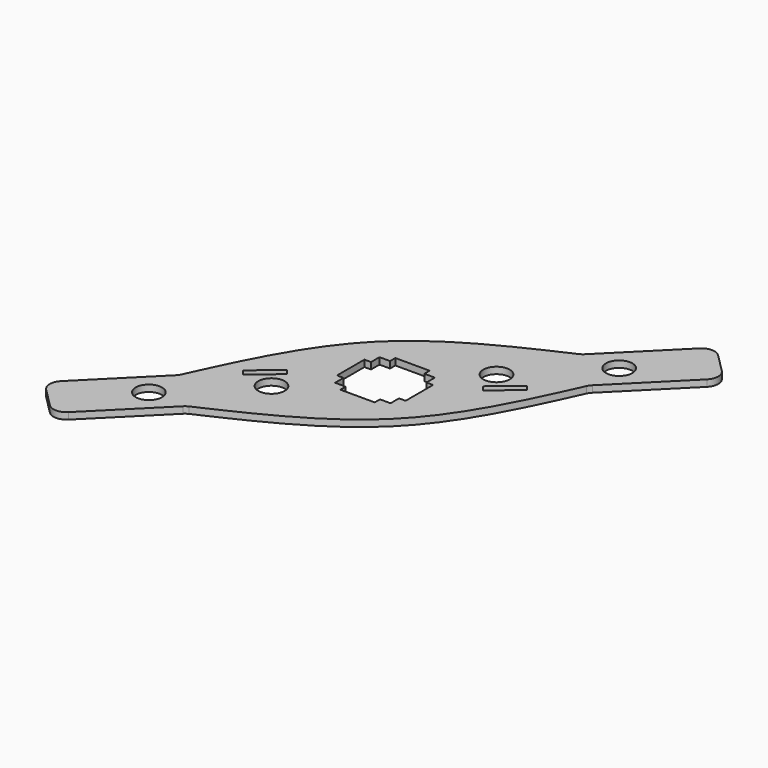
from build123d import *

# Parameters (mm, degrees)
F0_R     = 6.35
F0_R_2   = 6.3456189751
F1_DEPTH = 3.175


with BuildPart() as f1:
    # F0 (on Top) → F1 (new body)
    with BuildSketch(Plane.XY):
        with BuildLine():
            Line((94.021920908, 85.0416647869), (89.5317928475, 89.5317928475))
            Line((89.5317928475, 89.5317928475), (85.0416647869, 94.021920908))
            ThreePointArc((85.0416647869, 94.021920908), (80.5515367264, 95.8817928475), (76.0614086659, 94.021920908))
            Line((76.0614086659, 94.021920908), (45.4406379411, 63.4011501833))
            ThreePointArc((45.4406379411, 63.4011501833), (44.5721534378, 62.6753221527), (43.5886052016, 62.1152109764))
            add(Edge.make_bspline(
                [(-62.6577688011, -44.1408912278), (-51.418068027, -19.7331071402), (-28.816494863, 28.7776684856), (19.4337104978, 51.08297888), (43.5886052016, 62.1152109764)],
                knots=[0.0069595994, 0.0069595994, 0.0069595994, 0.0069595994, 0.5011838102, 0.9929298624, 0.9929298624, 0.9929298624, 0.9929298624], degree=3))
            ThreePointArc((-62.6577688011, -44.1408912278), (-63.215282887, -45.1145851352), (-63.9354672331, -45.974954991))
            Line((-63.9354672331, -45.974954991), (-94.5634576344, -76.6029453923))
            ThreePointArc((-94.5634576344, -76.6029453923), (-96.4233295739, -81.0930734528), (-94.5634576344, -85.5832015134))
            Line((-94.5634576344, -85.5832015134), (-90.0733295739, -90.0733295739))
            Line((-90.0733295739, -90.0733295739), (-85.5832015134, -94.5634576344))
            ThreePointArc((-85.5832015134, -94.5634576344), (-81.0930734528, -96.4233295739), (-76.6029453923, -94.5634576344))
            Line((-76.6029453923, -94.5634576344), (-45.974954991, -63.9354672331))
            ThreePointArc((-45.974954991, -63.9354672331), (-45.1145851352, -63.215282887), (-44.1408912278, -62.6577688011))
            add(Edge.make_bspline(
                [(-44.1408912278, -62.6577688011), (-19.7331071402, -51.418068027), (28.7776684856, -28.816494863), (51.08297888, 19.4337104978), (62.1152109764, 43.5886052016)],
                knots=[0.0069595994, 0.0069595994, 0.0069595994, 0.0069595994, 0.5011838102, 0.9929298624, 0.9929298624, 0.9929298624, 0.9929298624], degree=3))
            ThreePointArc((62.1152109764, 43.5886052016), (62.6753221527, 44.5721534378), (63.4011501833, 45.4406379411))
            Line((63.4011501833, 45.4406379411), (94.021920908, 76.0614086659))
            ThreePointArc((94.021920908, 76.0614086659), (95.8817928475, 80.5515367264), (94.021920908, 85.0416647869))
        make_face()
        with Locations((-63.1325612107, -63.1325612107)):
            Circle(F0_R, mode=Mode.SUBTRACT)
        with Locations((-30.3546263688, -30.3546263688)):
            Circle(F0_R, mode=Mode.SUBTRACT)
        Polygon((-31.8156620997, -19.131317284), (-44.4630558556, -29.74374072), (-46.6671745692, -27.1169743245), (-34.0197808133, -16.5045508886), align=None, mode=Mode.SUBTRACT)
        Polygon((13.335, -13.335), (8.255, -13.335), (8.255, -16.51), (-8.255, -16.51), (-8.255, -13.335), (-13.335, -13.335), (-13.335, -8.255), (-16.51, -8.255), (-16.51, 8.255), (-13.335, 8.255), (-13.335, 13.335), (-8.255, 13.335), (-8.255, 16.51), (8.255, 16.51), (8.255, 13.335), (13.335, 13.335), (13.335, 8.255), (16.51, 8.255), (16.51, -8.255), (13.335, -8.255), align=None, mode=Mode.SUBTRACT)
        Polygon((34.0197808133, 16.5045508886), (31.8156620997, 19.131317284), (44.4630558556, 29.74374072), (46.6671745692, 27.1169743245), align=None, mode=Mode.SUBTRACT)
        with Locations((29.8045584932, 29.8045584932)):
            Circle(F0_R_2, mode=Mode.SUBTRACT)
        with Locations((62.5910244843, 62.5910244843)):
            Circle(F0_R, mode=Mode.SUBTRACT)
    extrude(amount=F1_DEPTH)


solid = f1.part
